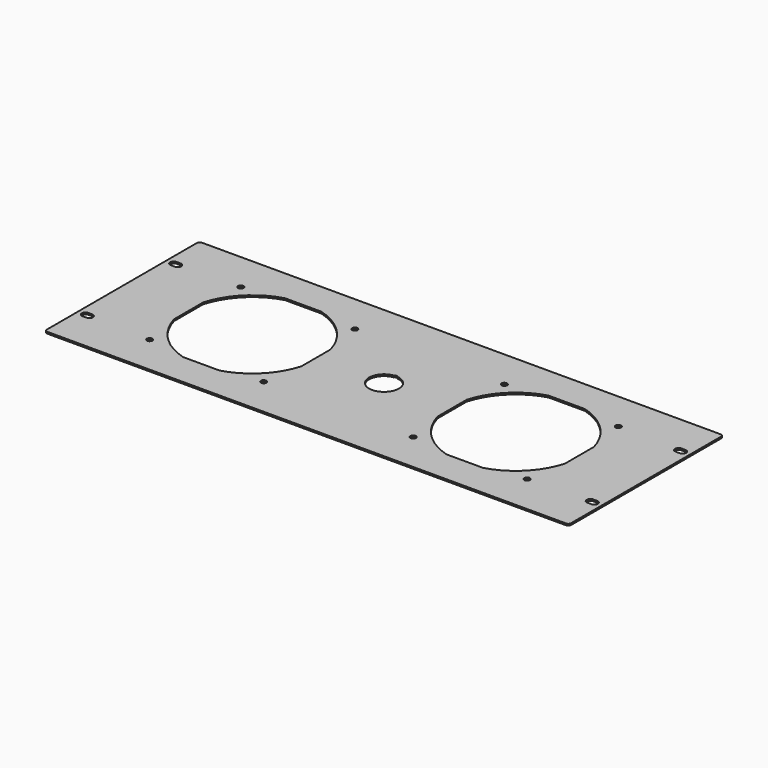
from build123d import *

# Parameters (mm, degrees)
F0_W     = 482.6
F0_H     = 177.8
F1_DEPTH = 1.56
F2_R     = 2.5
F3_R     = 2.55
F4_DEPTH = 25


with BuildPart() as f1:
    # F0 (on Top) → F1 (new body)
    with BuildSketch(Plane.XY):
        with Locations((241.3, 88.9)):
            Rectangle(F0_W, F0_H)
        with BuildLine():
            Line((7, 41.4), (10.76, 41.4))
            ThreePointArc((10.76, 41.4), (13.022742, 40.462742), (13.96, 38.2))
            Line((13.96, 38.2), (13.96, 38))
            ThreePointArc((13.96, 38), (13.022742, 35.737258), (10.76, 34.8))
            Line((10.76, 34.8), (7, 34.8))
            ThreePointArc((7, 34.8), (4.737258, 35.737258), (3.8, 38))
            Line((3.8, 38), (3.8, 38.2))
            ThreePointArc((3.8, 38.2), (4.737258, 40.462742), (7, 41.4))
        make_face(mode=Mode.SUBTRACT)
        with BuildLine():
            Line((468.64, 38), (468.64, 38.2))
            ThreePointArc((468.64, 38.2), (469.577258, 40.462742), (471.84, 41.4))
            Line((471.84, 41.4), (475.6, 41.4))
            ThreePointArc((475.6, 41.4), (477.862742, 40.462742), (478.8, 38.2))
            Line((478.8, 38.2), (478.8, 38))
            ThreePointArc((478.8, 38), (477.862742, 35.737258), (475.6, 34.8))
            Line((475.6, 34.8), (471.84, 34.8))
            ThreePointArc((471.84, 34.8), (469.577258, 35.737258), (468.64, 38))
        make_face(mode=Mode.SUBTRACT)
        with BuildLine():
            Line((10.76, 136.4), (7, 136.4))
            ThreePointArc((7, 136.4), (4.737258, 137.337258), (3.8, 139.6))
            Line((3.8, 139.6), (3.8, 139.8))
            ThreePointArc((3.8, 139.8), (4.737258, 142.062742), (7, 143))
            Line((7, 143), (10.76, 143))
            ThreePointArc((10.76, 143), (13.022742, 142.062742), (13.96, 139.8))
            Line((13.96, 139.8), (13.96, 139.6))
            ThreePointArc((13.96, 139.6), (13.022742, 137.337258), (10.76, 136.4))
        make_face(mode=Mode.SUBTRACT)
        with BuildLine():
            Line((478.8, 139.8), (478.8, 139.6))
            ThreePointArc((478.8, 139.6), (477.862742, 137.337258), (475.6, 136.4))
            Line((475.6, 136.4), (471.84, 136.4))
            ThreePointArc((471.84, 136.4), (469.577258, 137.337258), (468.64, 139.6))
            Line((468.64, 139.6), (468.64, 139.8))
            ThreePointArc((468.64, 139.8), (469.577258, 142.062742), (471.84, 143))
            Line((471.84, 143), (475.6, 143))
            ThreePointArc((475.6, 143), (477.862742, 142.062742), (478.8, 139.8))
        make_face(mode=Mode.SUBTRACT)
    extrude(amount=F1_DEPTH)

    # F2
    f2_edges = [f1.edges().sort_by_distance(p)[0] for p in [
        (0, 177.8, 0.78),
        (0, 0, 0.78),
        (482.6, 177.8, 0.78),
        (482.6, 0, 0.78),
    ]]
    fillet(f2_edges, radius=F2_R)

    # F3 (on face) → F4 (cut)
    with BuildSketch(Plane.XY.offset(1.56)):
        with BuildLine():
            Line((136.768348, 147.55), (103.231652, 147.55))
            ThreePointArc((103.231652, 147.55), (76.866486, 132.033514), (61.35, 105.668348))
            Line((61.35, 105.668348), (61.35, 72.131652))
            ThreePointArc((61.35, 72.131652), (76.866486, 45.766486), (103.231652, 30.25))
            Line((103.231652, 30.25), (136.768348, 30.25))
            ThreePointArc((136.768348, 30.25), (163.133514, 45.766486), (178.65, 72.131652))
            Line((178.65, 72.131652), (178.65, 105.668348))
            ThreePointArc((178.65, 105.668348), (163.133514, 132.033514), (136.768348, 147.55))
        make_face()
        with Locations((67.55, 141.35)):
            Circle(F3_R)
        with Locations((67.55, 36.45)):
            Circle(F3_R)
        with Locations((172.45, 141.35)):
            Circle(F3_R)
        with Locations((172.45, 36.45)):
            Circle(F3_R)
        with BuildLine():
            Line((379.368348, 147.55), (345.831652, 147.55))
            ThreePointArc((345.831652, 147.55), (319.466486, 132.033514), (303.95, 105.668348))
            Line((303.95, 105.668348), (303.95, 72.131652))
            ThreePointArc((303.95, 72.131652), (319.466486, 45.766486), (345.831652, 30.25))
            Line((345.831652, 30.25), (379.368348, 30.25))
            ThreePointArc((379.368348, 30.25), (405.733514, 45.766486), (421.25, 72.131652))
            Line((421.25, 72.131652), (421.25, 105.668348))
            ThreePointArc((421.25, 105.668348), (405.733514, 132.033514), (379.368348, 147.55))
        make_face()
        with Locations((415.05, 36.45)):
            Circle(F3_R)
        with Locations((310.15, 36.45)):
            Circle(F3_R)
        with Locations((415.05, 141.35)):
            Circle(F3_R)
        with Locations((310.15, 141.35)):
            Circle(F3_R)
        with BuildLine():
            Line((239.8, 103.275), (239.8, 102.567937))
            ThreePointArc((239.8, 102.567937), (241.3, 75.15), (242.8, 102.567937))
            Line((242.8, 102.567937), (242.8, 103.275))
            Line((242.8, 103.275), (241.3, 103.275))
            Line((241.3, 103.275), (239.8, 103.275))
        make_face()
    extrude(amount=-F4_DEPTH, mode=Mode.SUBTRACT)


solid = f1.part
